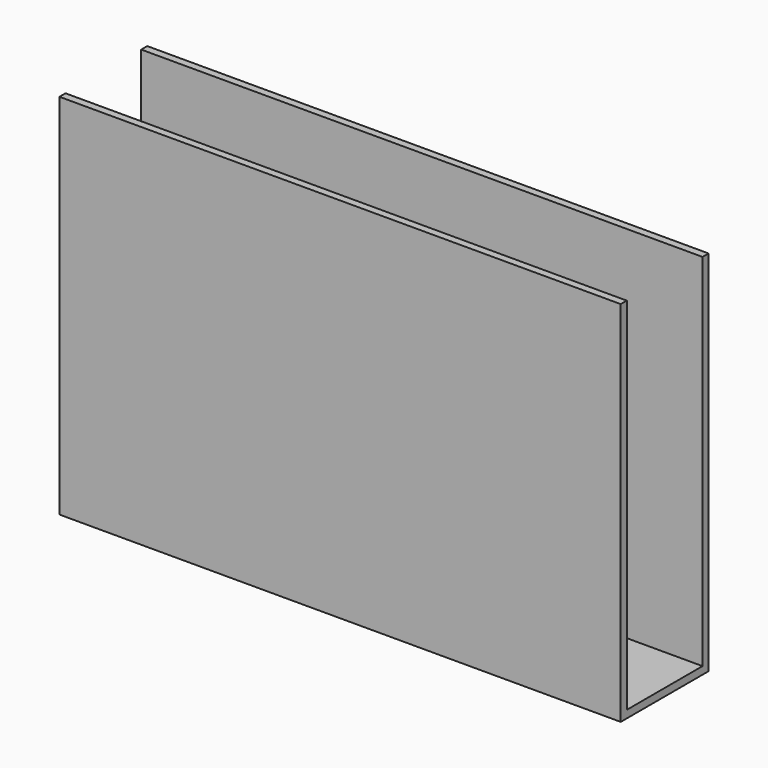
from build123d import *

# Parameters (mm, degrees)
F0_W     = 133.35
F0_H     = 25.4
F1_DEPTH = 85.09
F2_T     = -1.75
F3_DEPTH = 1.75
F4_DEPTH = 1.75


with BuildPart() as f1:
    # F0 (on Top) → F1 (new body)
    with BuildSketch(Plane.XY):
        Rectangle(F0_W, F0_H)
    extrude(amount=F1_DEPTH)

    # F2
    f2_openings = [f1.faces().sort_by_distance(p)[0] for p in [
        (0, 0, 85.09),
    ]]
    offset(amount=F2_T, openings=f2_openings)

    # F3 (cut): a face of the model
    f3_faces = [f1.faces().sort_by_distance(p)[0] for p in [
        (-66.675, 0, 42.545),
    ]]
    extrude(f3_faces, amount=-F3_DEPTH, mode=Mode.SUBTRACT)

    # F4 (cut): a face of the model
    f4_faces = [f1.faces().sort_by_distance(p)[0] for p in [
        (66.675, 0, 42.545),
    ]]
    extrude(f4_faces, amount=-F4_DEPTH, mode=Mode.SUBTRACT)


solid = f1.part
